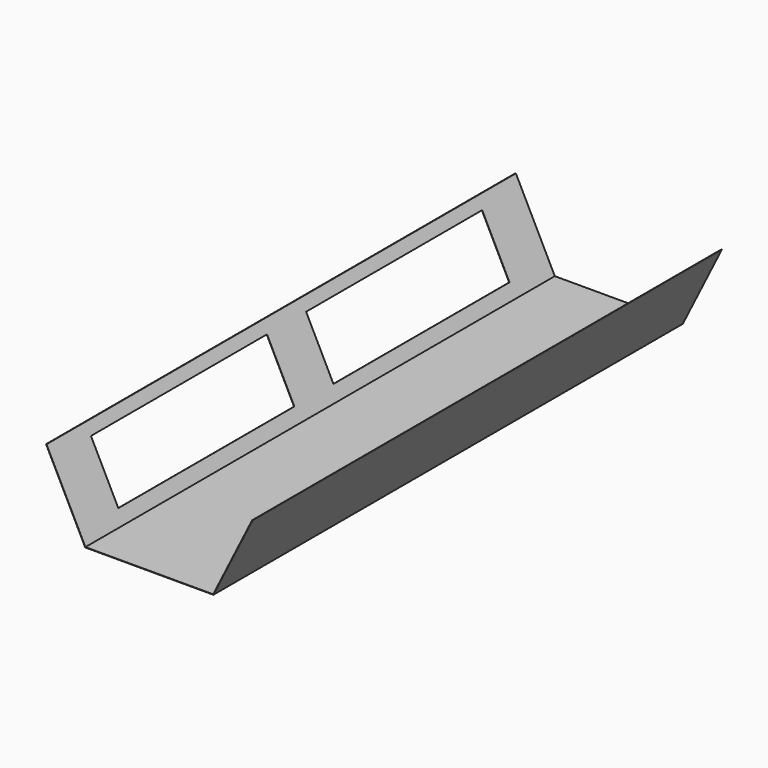
from build123d import *

# Parameters (mm, degrees)
F1_DEPTH = 2400
F2_W     = 900
F2_H     = 250
F3_DEPTH = 1.6
F4_W     = 900
F4_H     = 250
F5_DEPTH = 1.6


with BuildPart() as f1:
    # F0 (on Front) → F1 (new body)
    with BuildSketch(Plane.XZ):
        Polygon((-239.018946, -140.479133), (-388.218946, 157.920867), (-392.691082, 166.865139), (-394.291082, 166.865139), (-234.291082, -153.134861), (290.052568, -153.134861), (450.052568, 166.865139), (448.452568, 166.865139), (443.980432, 157.920867), (294.780432, -140.479133), (289.252568, -151.534861), (276.891889, -151.534861), (-221.130403, -151.534861), (-233.491082, -151.534861), align=None)
    extrude(amount=F1_DEPTH)

    # F2 (on face) → F3 (cut)
    with BuildSketch(Plane(origin=(-248.68681, 0, -124.343405), x_dir=(0, -1, 0), z_dir=(-0.894427, 0, -0.447214))):
        with Locations((1750, 150.58105)):
            Rectangle(F2_W, F2_H)
    extrude(amount=-F3_DEPTH, mode=Mode.SUBTRACT)

    # F4 (on face) → F5 (cut)
    with BuildSketch(Plane(origin=(-248.68681, 0, -124.343405), x_dir=(0, -1, 0), z_dir=(-0.894427, 0, -0.447214))):
        with Locations((650, 150.58105)):
            Rectangle(F4_W, F4_H)
    extrude(amount=-F5_DEPTH, mode=Mode.SUBTRACT)


solid = f1.part
